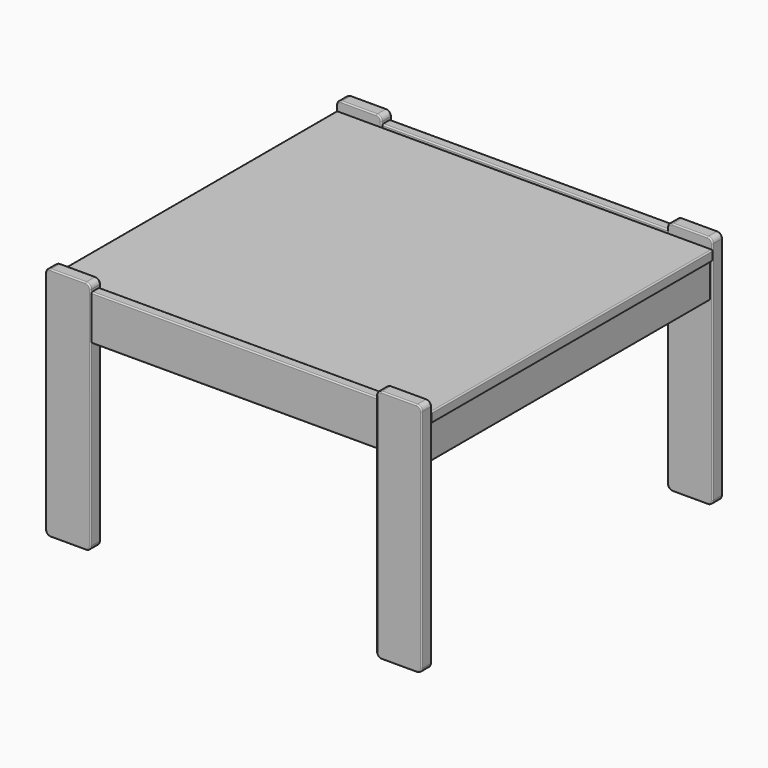
from build123d import *

# Parameters (mm, degrees)
F0_W      = 750
F0_H      = 700
F1_DEPTH  = 20
F2_W      = 90
F2_H      = 470
F3_DEPTH  = 25
F4_R      = 10
F5_W      = 20
F5_H      = 70
F6_DEPTH  = 700
F7_R      = 2.5
F8_R      = 2.5
F10_W     = 20
F10_H     = 90
F11_DEPTH = 570
F12_R     = 2.5
F14_R     = 2.5


with BuildPart() as f1:
    # F0 (on Top) → F1 (new body)
    with BuildSketch(Plane.XY):
        Rectangle(F0_W, F0_H)
    extrude(amount=-F1_DEPTH)

    # F14
    f14_edges = [f1.edges().sort_by_distance(p)[0] for p in [
        (375, 0, 0),
        (375, 0, -20),
        (-375, 0, -20),
        (-375, 0, 0),
    ]]
    fillet(f14_edges, radius=F14_R)


with BuildPart() as f3:
    # F2 (on face) → F3 (new body)
    with BuildSketch(Plane.XZ.offset(350)):
        with Locations((330, -215)):
            Rectangle(F2_W, F2_H)
    extrude(amount=F3_DEPTH)

    # F4
    f4_edges = [f3.edges().sort_by_distance(p)[0] for p in [
        (375, -362.5, 20),
        (285, -362.5, 20),
        (375, -362.5, -450),
        (285, -362.5, -450),
    ]]
    fillet(f4_edges, radius=F4_R)

    # F7
    f7_edges = [f3.edges().sort_by_distance(p)[0] for p in [
        (330, -350, 20),
        (365, -362.5, 20),
        (295, -362.5, 20),
        (330, -375, 20),
    ]]
    fillet(f7_edges, radius=F7_R)


with BuildPart() as f6:
    # F5 (on face) → F6 (new body, through all)
    with BuildSketch(Plane(origin=(0, -350, 0), x_dir=(-1, 0, 0), z_dir=(0, 1, 0))):
        with Locations((-360, -55)):
            Rectangle(F5_W, F5_H)
    extrude(amount=F6_DEPTH)

    # F8
    f8_edges = [f6.edges().sort_by_distance(p)[0] for p in [
        (350, 0, -90),
        (370, 0, -90),
    ]]
    fillet(f8_edges, radius=F8_R)


with BuildPart() as f9_1:
    # F9: instance of F3
    add(f3.part.mirror(Plane.YZ))


with BuildPart() as f9_2:
    # F9: instance of F6
    add(f6.part.mirror(Plane.YZ))


with BuildPart() as f11:
    # F10 (on face) → F11 (new body, through all)
    with BuildSketch(Plane(origin=(285, 0, 0), x_dir=(0, -1, 0), z_dir=(-1, 0, 0))):
        with Locations((362.5, -40)):
            Rectangle(F10_W, F10_H)
    extrude(amount=F11_DEPTH)

    # F12
    f12_edges = [f11.edges().sort_by_distance(p)[0] for p in [
        (0, -352.5, 5),
        (0, -372.5, 5),
        (0, -372.5, -85),
        (0, -352.5, -85),
    ]]
    fillet(f12_edges, radius=F12_R)


with BuildPart() as f13_1:
    # F13: instance of F3
    add(f3.part.mirror(Plane.XZ))


with BuildPart() as f13_2:
    # F13: instance of F9_1
    add(f9_1.part.mirror(Plane.XZ))


with BuildPart() as f13_3:
    # F13: instance of F11
    add(f11.part.mirror(Plane.XZ))


solid = Compound([f1.part, f3.part, f6.part, f9_1.part, f9_2.part, f11.part, f13_1.part, f13_2.part, f13_3.part])
